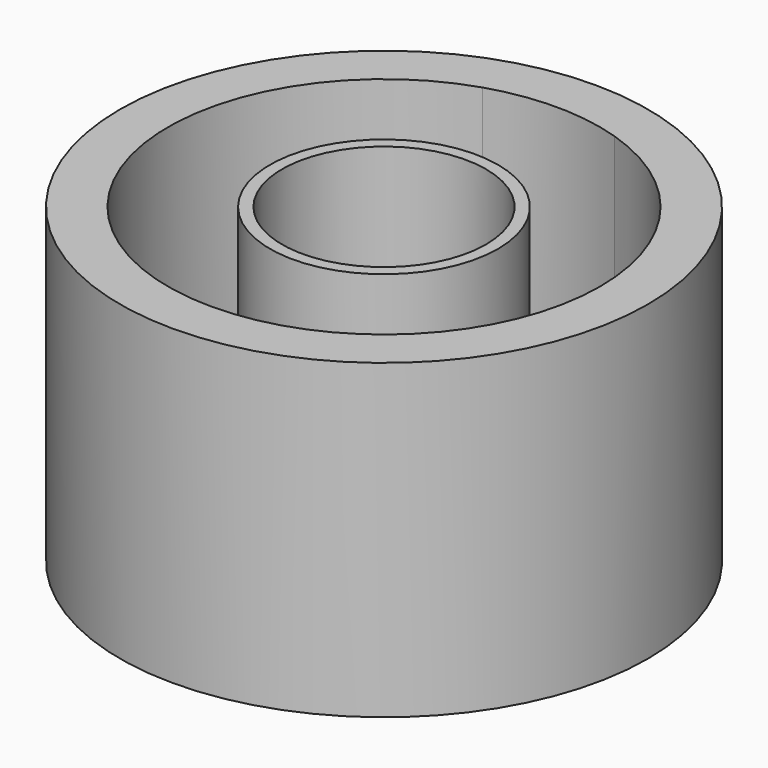
from build123d import *

# Parameters (mm, degrees)
F0_R     = 22
F0_R_2   = 9.5
F0_R_3   = 8.5
F1_DEPTH = 26
F2_DEPTH = 7


with BuildPart() as f1:
    # F0 (on Top) → F1 (new body)
    with BuildSketch(Plane.XY):
        Circle(F0_R)
        with BuildLine():
            ThreePointArc((5.5, 17.139137), (14.54304, 10.606602), (18, 0))
            ThreePointArc((18, 0), (13.910428, -11.42366), (3.5, -17.656444))
            ThreePointArc((3.5, -17.656444), (0, -18), (-3.5, -17.656444))
            ThreePointArc((-3.5, -17.656444), (-17.970339, -1.032909), (-5.5, 17.139137))
            ThreePointArc((-5.5, 17.139137), (0, 18), (5.5, 17.139137))
        make_face(mode=Mode.SUBTRACT)
        Circle(F0_R_2)
        Circle(F0_R_3, mode=Mode.SUBTRACT)
    extrude(amount=F1_DEPTH)

    # F0 (on Top) → F2 (join)
    with BuildSketch(Plane.XY):
        with BuildLine():
            Line((3.025386, 15.443175), (5.5, 17.139137))
            ThreePointArc((5.5, 17.139137), (0, 18), (-5.5, 17.139137))
            Line((-5.5, 17.139137), (-3.025386, 15.443175))
            ThreePointArc((-3.025386, 15.443175), (0, 15.736728), (3.025386, 15.443175))
        make_face()
        with BuildLine():
            ThreePointArc((-3.5, -17.656444), (0, -18), (3.5, -17.656444))
            Line((3.5, -17.656444), (3, -14.698404))
            ThreePointArc((3, -14.698404), (0, -15.001436), (-3, -14.698404))
            Line((-3, -14.698404), (-3.5, -17.656444))
        make_face()
    extrude(amount=F2_DEPTH)


solid = f1.part
